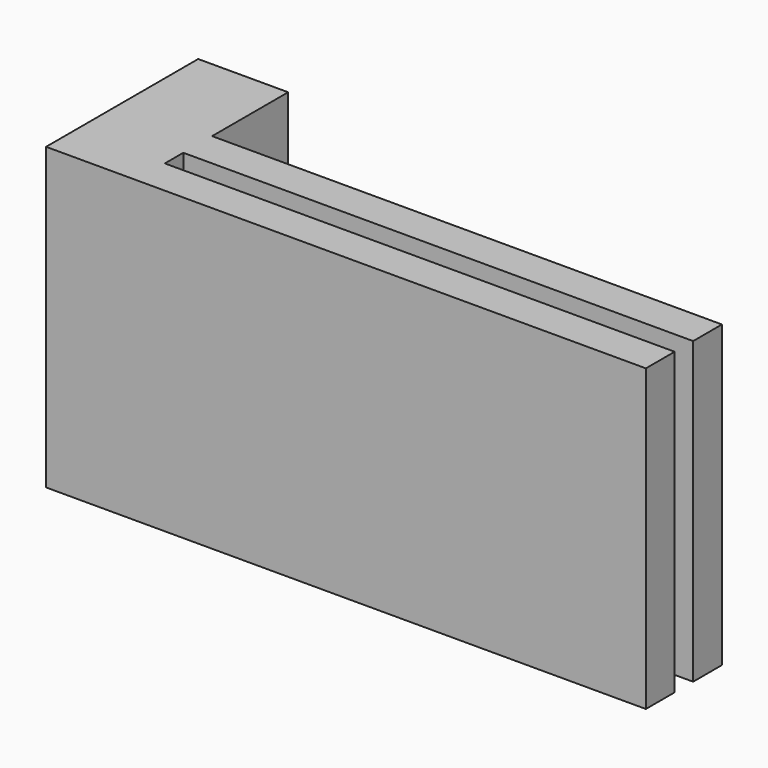
from build123d import *

# Parameters (mm, degrees)
PAD_DEPTH = 10


with BuildPart() as part:
    # Sketch → Pad (new body)
    with BuildSketch(Plane.XY):
        Polygon((0, 0), (20, 0), (20, 1.2), (3, 1.2), (3, 1.97), (20, 1.97), (20, 3.17), (3, 3.17), (3, 6.34), (0, 6.34), align=None)
    extrude(amount=PAD_DEPTH)


solid = part.part
